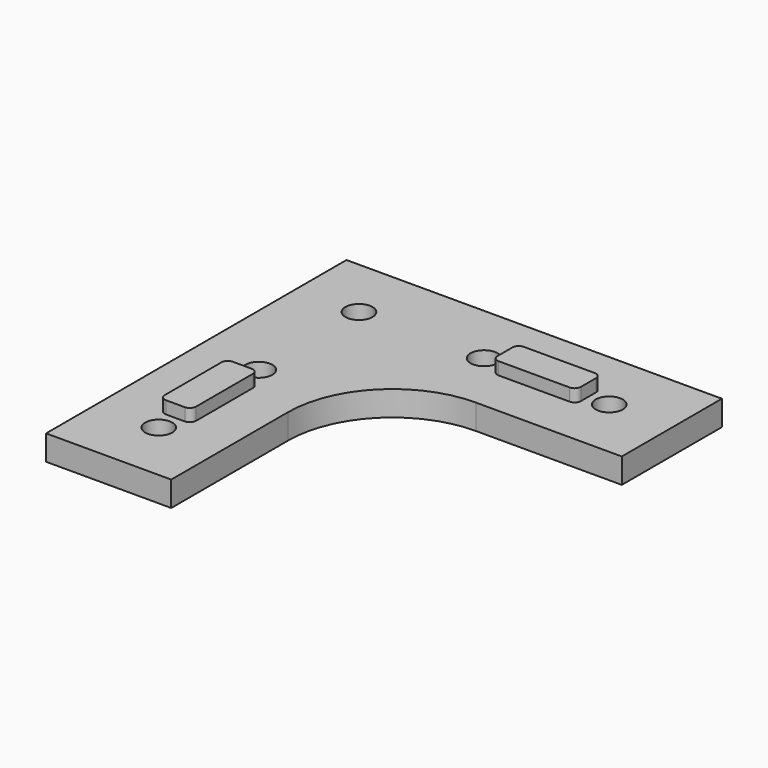
from build123d import *

# Parameters (mm, degrees)
F1_DEPTH = 6
F2_R     = 3.25
F3_DEPTH = 8
F5_DEPTH = 3


with BuildPart() as f1:
    # F0 (on Top) → F1 (new body)
    with BuildSketch(Plane.XY):
        with BuildLine():
            Line((-28.6977304518, 102.8932180628), (-58.6977304518, 102.8932180628))
            Line((-58.6977304518, 102.8932180628), (-58.6977304518, 72.8932180628))
            Line((-58.6977304518, 72.8932180628), (-58.6977304518, 12.8932180628))
            Line((-58.6977304518, 12.8932180628), (-28.6977304518, 12.8932180628))
            Line((-28.6977304518, 12.8932180628), (-28.6977304518, 47.8932180628))
            ThreePointArc((-28.6977304518, 47.8932180628), (-21.3753999815, 65.5708875925), (-3.6977304518, 72.8932180628))
            Line((-3.6977304518, 72.8932180628), (31.3022695482, 72.8932180628))
            Line((31.3022695482, 72.8932180628), (31.3022695482, 102.8932180628))
            Line((31.3022695482, 102.8932180628), (-28.6977304518, 102.8932180628))
        make_face()
    extrude(amount=F1_DEPTH)

    # F2 (on face) → F3 (cut)
    with BuildSketch(Plane.XY.offset(6)):
        with Locations((-13.6977304518, 87.8932180628)):
            Circle(F2_R)
        with Locations((16.3022695482, 87.8932180628)):
            Circle(F2_R)
        with Locations((-43.6977304518, 57.8932180628)):
            Circle(F2_R)
        with Locations((-43.6977304518, 27.8932180628)):
            Circle(F2_R)
        with BuildLine():
            Line((-45.9958274907, 90.1913151017), (-41.399633413, 85.595121024))
            ThreePointArc((-41.399633413, 85.595121024), (-40.6951219712, 86.6494969076), (-40.4477304518, 87.8932180628))
            ThreePointArc((-40.4477304518, 87.8932180628), (-42.4540092966, 90.8958265435), (-45.9958274907, 90.1913151017))
        make_face()
        with BuildLine():
            ThreePointArc((-45.9958274907, 90.1913151017), (-45.9958274907, 85.595121024), (-41.399633413, 85.595121024))
            Line((-41.399633413, 85.595121024), (-45.9958274907, 90.1913151017))
        make_face()
    extrude(amount=-F3_DEPTH, mode=Mode.SUBTRACT)

    # F4 (on face) → F5 (join)
    with BuildSketch(Plane.XY.offset(6)):
        with BuildLine():
            Line((9.8022695482, 91.6432180628), (-7.1977304518, 91.6432180628))
            ThreePointArc((-7.1977304518, 91.6432180628), (-8.2583906236, 91.2038782346), (-8.6977304518, 90.1432180628))
            Line((-8.6977304518, 90.1432180628), (-8.6977304518, 85.6432180628))
            ThreePointArc((-8.6977304518, 85.6432180628), (-8.2583906236, 84.582557891), (-7.1977304518, 84.1432180628))
            Line((-7.1977304518, 84.1432180628), (9.8022695482, 84.1432180628))
            ThreePointArc((9.8022695482, 84.1432180628), (10.86292972, 84.582557891), (11.3022695482, 85.6432180628))
            Line((11.3022695482, 85.6432180628), (11.3022695482, 90.1432180628))
            ThreePointArc((11.3022695482, 90.1432180628), (10.86292972, 91.2038782346), (9.8022695482, 91.6432180628))
        make_face()
        with BuildLine():
            Line((-41.4477304518, 52.8932180628), (-45.9477304518, 52.8932180628))
            ThreePointArc((-45.9477304518, 52.8932180628), (-47.0083906236, 52.4538782346), (-47.4477304518, 51.3932180628))
            Line((-47.4477304518, 51.3932180628), (-47.4477304518, 34.3932180628))
            ThreePointArc((-47.4477304518, 34.3932180628), (-47.0083906236, 33.332557891), (-45.9477304518, 32.8932180628))
            Line((-45.9477304518, 32.8932180628), (-41.4477304518, 32.8932180628))
            ThreePointArc((-41.4477304518, 32.8932180628), (-40.38707028, 33.332557891), (-39.9477304518, 34.3932180628))
            Line((-39.9477304518, 34.3932180628), (-39.9477304518, 51.3932180628))
            ThreePointArc((-39.9477304518, 51.3932180628), (-40.38707028, 52.4538782346), (-41.4477304518, 52.8932180628))
        make_face()
    extrude(amount=F5_DEPTH)


solid = f1.part
